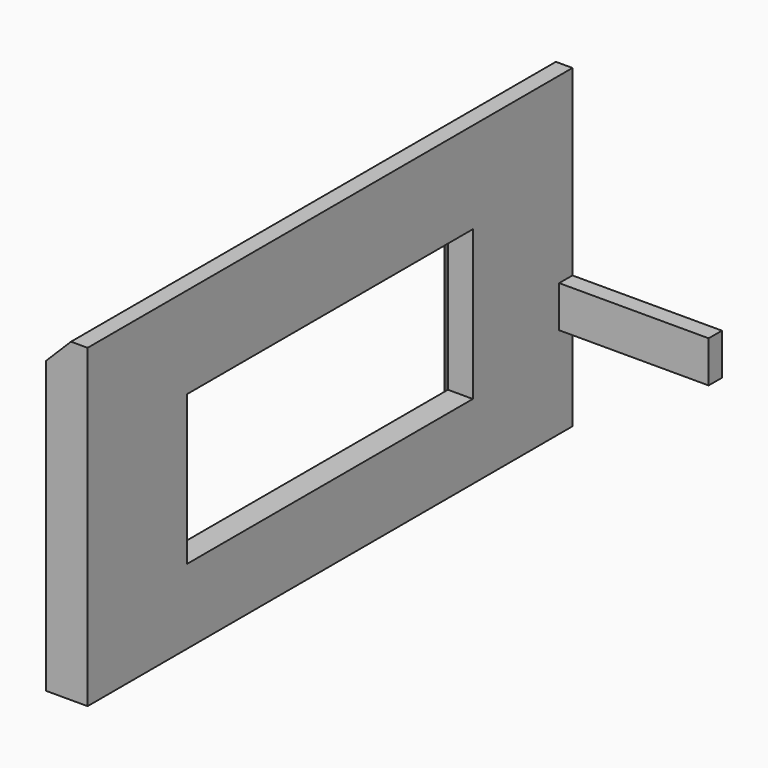
from build123d import *

# Parameters (mm, degrees)
BOX012_W        = 20
BOX012_H        = 2
BOX012_DEPTH    = 5
BOX011_W        = 7
BOX011_H        = 43
BOX011_DEPTH    = 18
BOX010_W        = 5
BOX010_H        = 73
BOX010_DEPTH    = 38
CHAMFER002_SIZE = 3
CHAMFER003_SIZE = 2


with BuildPart() as cube004:
    # Box012 → Box012 (new body)
    with BuildSketch(Plane(origin=(20, -4, 16), x_dir=(1, 0, 0), z_dir=(0, 0, 1))):
        with Locations((10, 1)):
            Rectangle(BOX012_W, BOX012_H)
    extrude(amount=BOX012_DEPTH)


with BuildPart() as obj1:
    # Box011 → Box011 (new body)
    with BuildSketch(Plane(origin=(16, -60, 14), x_dir=(1, 0, 0), z_dir=(0, 0, 1))):
        with Locations((3.5, 21.5)):
            Rectangle(BOX011_W, BOX011_H)
    extrude(amount=BOX011_DEPTH)


with BuildPart() as obj2:
    # Box010 → Box010 (new body)
    with BuildSketch(Plane(origin=(17, -75, 5), x_dir=(1, 0, 0), z_dir=(0, 0, 1))):
        with Locations((2.5, 36.5)):
            Rectangle(BOX010_W, BOX010_H)
    extrude(amount=BOX010_DEPTH)

    # Cut028: cut obj1
    add(obj1.part, mode=Mode.SUBTRACT)

    # Chamfer002
    chamfer002_edges = [obj2.edges().sort_by_distance(p)[0] for p in [
        (17, -38.5, 43),
        (17, -2, 24),
    ]]
    chamfer(chamfer002_edges, length=CHAMFER002_SIZE)

    # Chamfer003
    chamfer003_edges = [obj2.edges().sort_by_distance(p)[0] for p in [
        (17, -38.5, 14),
        (17, -17, 23),
        (17, -38.5, 32),
        (17, -60, 23),
    ]]
    chamfer(chamfer003_edges, length=CHAMFER003_SIZE)

    # Fusion001032: union Cube004
    add(cube004.part)


solid = obj2.part
